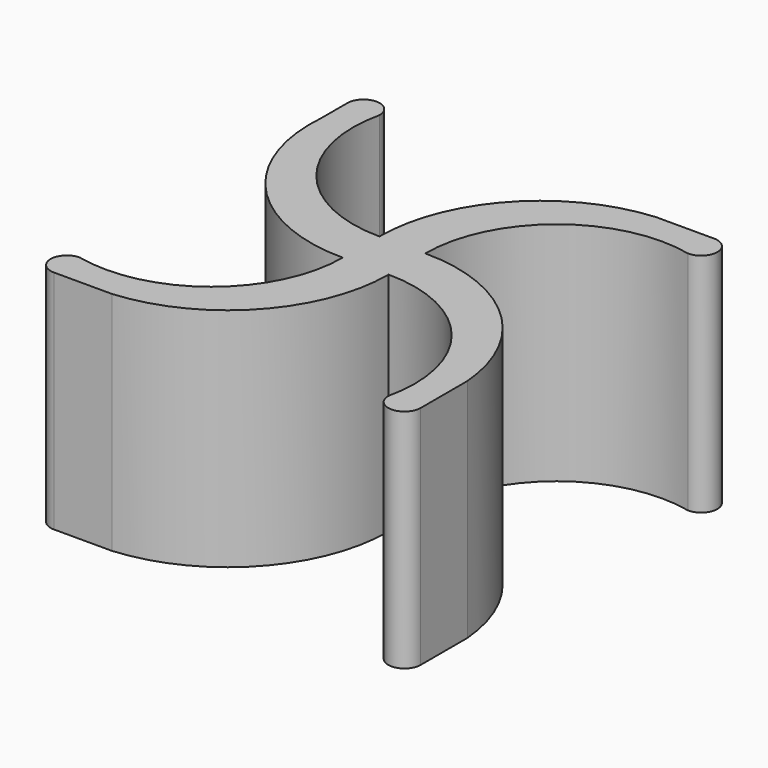
from build123d import *

# Parameters (mm, degrees)
F1_DEPTH = 37


with BuildPart() as f1:
    # F0 (on Top) → F1 (new body)
    with BuildSketch(Plane.XY):
        with BuildLine():
            Line((24.7, 30), (20.470123, 30))
            ThreePointArc((20.470123, 30), (3.230056, 21.608309), (-3.75, 3.75))
            ThreePointArc((-3.75, 3.75), (-20.542595, 11.832957), (-24.7, 30))
            ThreePointArc((-24.7, 30), (-27.35, 32.65), (-30, 30))
            Line((-30, 30), (-30, 24.6934))
            ThreePointArc((-30, 24.6934), (-23.102581, 4.724357), (-3.75, -3.75))
            ThreePointArc((-3.75, -3.75), (-11.832957, -20.542595), (-30, -24.7))
            ThreePointArc((-30, -24.7), (-32.65, -27.35), (-30, -30))
            Line((-30, -30), (-24.6934, -30))
            Line((-24.6934, -30), (-20.475743, -30))
            ThreePointArc((-20.475743, -30), (-3.231991, -21.610215), (3.75, -3.75))
            ThreePointArc((3.75, -3.75), (20.540537, -11.833555), (24.6934, -30))
            ThreePointArc((24.6934, -30), (27.3467, -32.6533), (30, -30))
            Line((30, -30), (30, -24.7))
            Line((30, -24.7), (30, -20.470123))
            ThreePointArc((30, -20.470123), (21.608309, -3.230056), (3.75, 3.75))
            ThreePointArc((3.75, 3.75), (11.833555, 20.540537), (30, 24.6934))
            ThreePointArc((30, 24.6934), (32.6533, 27.3467), (30, 30))
            Line((30, 30), (24.7, 30))
        make_face()
    extrude(amount=F1_DEPTH)


solid = f1.part
